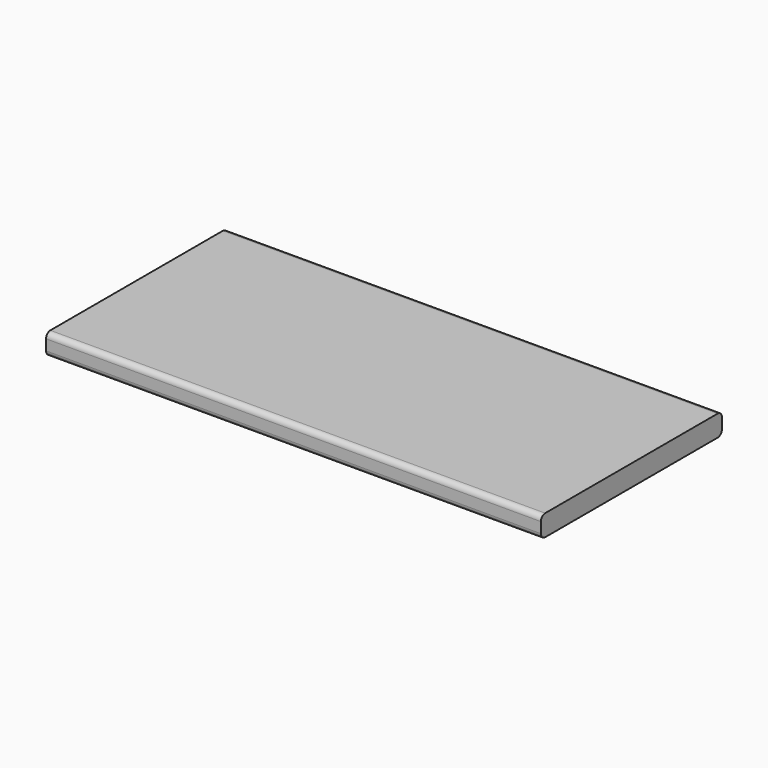
from build123d import *

# Parameters (mm, degrees)
SKETCH_W  = 42.7
SKETCH_H  = 4
PAD_DEPTH = 46.7
FILLET_R  = 1


with BuildPart() as part:
    # Sketch → Pad (new body, symmetric)
    with BuildSketch(Plane.YZ):
        with Locations((0, 2)):
            Rectangle(SKETCH_W, SKETCH_H)
    extrude(amount=PAD_DEPTH, both=True)

    # Fillet
    fillet_edges = [part.edges().sort_by_distance(p)[0] for p in [
        (0, -21.35, 4),
        (0, -21.35, 0),
        (0, 21.35, 0),
        (0, 21.35, 4),
    ]]
    fillet(fillet_edges, radius=FILLET_R)


solid = part.part
